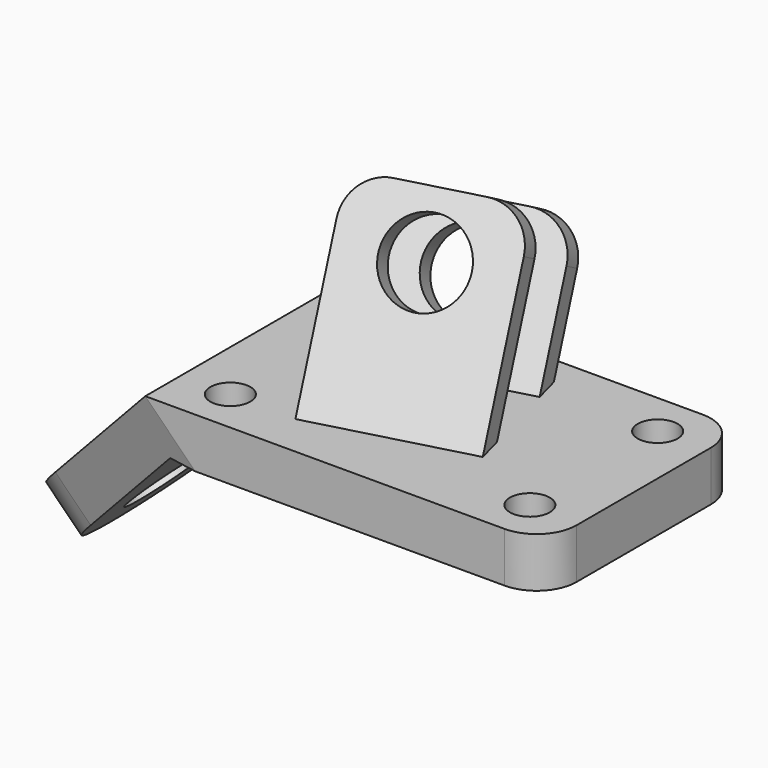
from build123d import *

# Parameters (mm, degrees)
PAD_DEPTH            = 62
POCKET_DEPTH         = 213.922356
SKETCH002_R          = 20
POCKET001_DEPTH      = 213.922356
SKETCH003_R          = 10
POCKET002_DEPTH      = 102.531483
POCKET002_DEPTH_BACK = 0.001
PAD001_DEPTH         = 60
SKETCH005_R          = 20
POCKET003_DEPTH      = 60
POCKET004_DEPTH      = 212.557512
SKETCH007_W          = 150
SKETCH007_H          = 20
POCKET005_DEPTH      = 74.846137
FILLET_R             = 20


with BuildPart() as part:
    # Sketch → Pad (new body, symmetric)
    with BuildSketch(Plane.XZ):
        Polygon((0, 0), (200, 0), (200, -25), (10.355339, -25), (-67.175144, -102.530483), (-84.852814, -84.852814), align=None)
    extrude(amount=PAD_DEPTH, both=True)

    # Sketch001 (on DatumPlane) → Pocket (cut, through all)
    with BuildSketch(Plane(origin=(0, 0, 0), x_dir=(0.707107, 0, 0.707107), z_dir=(-0.707107, 0, 0.707107))):
        with BuildLine():
            Line((-130, 62), (0, 62))
            Line((0, 62), (-90.013078, 38.726454))
            ThreePointArc((-90.013078, 38.726454), (-120, 0), (-90.013078, -38.726454))
            Line((0, -62), (-90.013078, -38.726454))
            Line((0, -62), (-130, -62))
            Line((-130, -62), (-130, 62))
        make_face()
    extrude(amount=-POCKET_DEPTH, mode=Mode.SUBTRACT)

    # Sketch002 (on DatumPlane) → Pocket001 (cut, through all)
    with BuildSketch(Plane(origin=(0, 0, 0), x_dir=(0.707107, 0, 0.707107), z_dir=(-0.707107, 0, 0.707107))):
        with Locations((-80, 0)):
            Circle(SKETCH002_R)
    extrude(amount=-POCKET001_DEPTH, mode=Mode.SUBTRACT)

    # Sketch003 → Pocket002 (cut, two sides)
    with BuildSketch(Plane.XY) as pocket002_sk:
        with Locations((25, 40)):
            Circle(SKETCH003_R)
        with Locations((175, 40)):
            Circle(SKETCH003_R)
        with Locations((175, -40)):
            Circle(SKETCH003_R)
        with Locations((25, -40)):
            Circle(SKETCH003_R)
    extrude(amount=-POCKET002_DEPTH, mode=Mode.SUBTRACT)
    extrude(pocket002_sk.sketch, amount=POCKET002_DEPTH_BACK, mode=Mode.SUBTRACT)

    # Sketch004 (on DatumPlane) → Pad001 (join)
    with BuildSketch(Plane(origin=(0, -56, 0), x_dir=(0.965926, 0.258819, 0), z_dir=(0.224144, -0.836516, 0.5))):
        with BuildLine():
            Line((140, 79.999939), (140, 0))
            Line((140, 0), (60, 0))
            Line((60, 0), (60, 80.000001))
            ThreePointArc((79.999999, 100), (65.857864, 94.142136), (60, 80.000001))
            Line((79.999999, 100), (120, 100))
            ThreePointArc((140, 79.999939), (134.142157, 94.142114), (120, 100))
        make_face()
    extrude(amount=-PAD001_DEPTH)

    # Sketch005 (on DatumPlane) → Pocket003 (cut)
    with BuildSketch(Plane(origin=(0, -56, 0), x_dir=(0.965926, 0.258819, 0), z_dir=(0.224144, -0.836516, 0.5))):
        with Locations((100, 70)):
            Circle(SKETCH005_R)
    extrude(amount=-POCKET003_DEPTH, mode=Mode.SUBTRACT)

    # Sketch006 (on DatumPlane) → Pocket004 (cut, through all)
    with BuildSketch(Plane(origin=(0, 0, 0), x_dir=(-0.258819, 0.965926, 0), z_dir=(0.965926, 0.258819, 0))):
        Polygon((-40.23544, 0), (6.300459, 80.60254), (37.477373, 62.60254), (1.33378, 0), align=None)
    extrude(amount=POCKET004_DEPTH, mode=Mode.SUBTRACT)

    # Sketch007 → Pocket005 (cut, through all)
    with BuildSketch(Plane.XZ):
        with Locations((90, -35)):
            Rectangle(SKETCH007_W, SKETCH007_H)
    extrude(amount=-POCKET005_DEPTH, mode=Mode.SUBTRACT)

    # Fillet
    fillet_edges = [part.edges().sort_by_distance(p)[0] for p in [
        (200, -62, -12.5),
        (200, 62, -12.5),
    ]]
    fillet(fillet_edges, radius=FILLET_R)


solid = part.part
